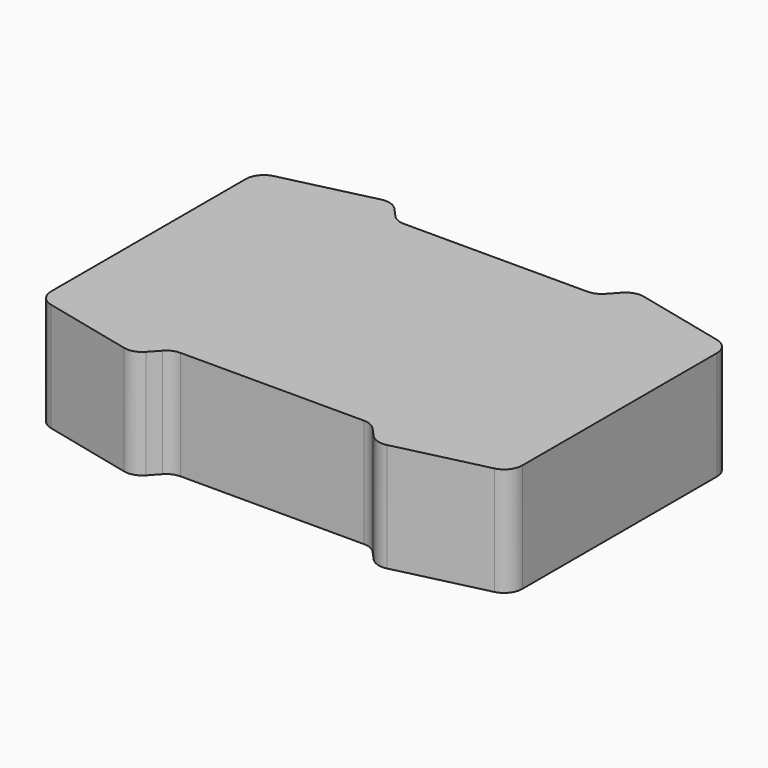
from build123d import *

# Parameters (mm, degrees)
F1_DEPTH = 76.2
F2_R     = 12.7
F3_SCALE = 0.3


with BuildPart() as f1:
    # F0 (on Top) → F1 (new body)
    with BuildSketch(Plane.XY):
        Polygon((165.1, -95.25), (165.1, 95.25), (84.7781474317, 114.3), (69.85, 97.8762737351), (0, 97.8762737351), (-69.85, 97.8762737351), (-84.7781474317, 114.3), (-165.1, 95.25), (-165.1, -95.25), (-84.7781474317, -114.3), (-69.85, -97.8762737351), (0, -97.8762737351), (69.85, -97.8762737351), (84.7781474317, -114.3), align=None)
    extrude(amount=F1_DEPTH)

    # F2
    f2_edges = [f1.edges().sort_by_distance(p)[0] for p in [
        (-165.1, -95.25, 38.1),
        (-84.778147, -114.3, 38.1),
        (-69.85, -97.876274, 38.1),
        (69.85, -97.876274, 38.1),
        (84.778147, -114.3, 38.1),
        (165.1, -95.25, 38.1),
        (165.1, 95.25, 38.1),
        (84.778147, 114.3, 38.1),
        (69.85, 97.876274, 38.1),
        (-69.85, 97.876274, 38.1),
        (-84.778147, 114.3, 38.1),
        (-165.1, 95.25, 38.1),
    ]]
    fillet(f2_edges, radius=F2_R)


with BuildPart() as f1_1:
    # F3: moved
    add(f1.part.scale(F3_SCALE))


solid = f1_1.part
